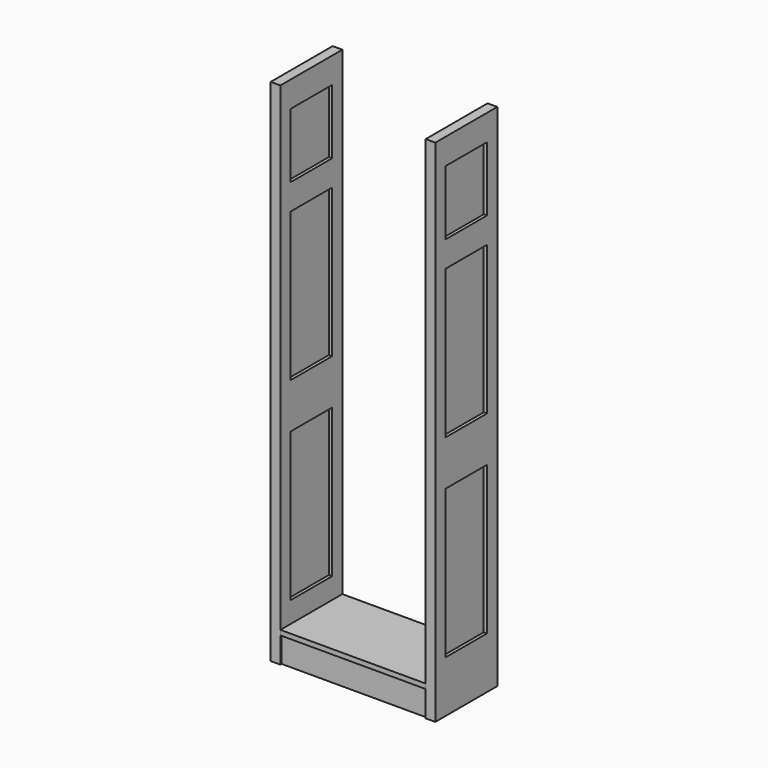
from build123d import *

# Parameters (mm, degrees)
F0_W     = 304.8
F0_H     = 2006.6
F0_W_2   = 203.2
F0_H_2   = 584.2
F0_H_3   = 254
F1_DEPTH = 19.05
F2_DEPTH = 6.35
F5_W     = 19.05
F5_H     = 101.6
F6_DEPTH = 571.5
F8_DEPTH = 571.5


with BuildPart() as f1:
    # F0 (on Right) → F1 (new body, symmetric)
    with BuildSketch(Plane.YZ):
        Rectangle(F0_W, F0_H)
        with Locations((0, -508)):
            Rectangle(F0_W_2, F0_H_2, mode=Mode.SUBTRACT)
        with Locations((0, 254)):
            Rectangle(F0_W_2, F0_H_2, mode=Mode.SUBTRACT)
        with Locations((0, 774.7)):
            Rectangle(F0_W_2, F0_H_3, mode=Mode.SUBTRACT)
    extrude(amount=F1_DEPTH, both=True)


with BuildPart() as f2:
    # F0 (on Right) → F2 (new body, symmetric)
    with BuildSketch(Plane.YZ):
        with Locations((0, 774.7)):
            Rectangle(F0_W_2, F0_H_3)
    extrude(amount=F2_DEPTH, both=True)


with BuildPart() as f2b:
    # F0 (on Right) → F2, piece 2 (new body, symmetric)
    with BuildSketch(Plane.YZ):
        with Locations((0, 254)):
            Rectangle(F0_W_2, F0_H_2)
    extrude(amount=F2_DEPTH, both=True)


with BuildPart() as f2c:
    # F0 (on Right) → F2, piece 3 (new body, symmetric)
    with BuildSketch(Plane.YZ):
        with Locations((0, -508)):
            Rectangle(F0_W_2, F0_H_2)
    extrude(amount=F2_DEPTH, both=True)


with BuildPart() as f4_1:
    # F4: instance of F1
    add(f1.part.mirror(Plane.YZ.offset(304.8)))


with BuildPart() as f4_2:
    # F4: instance of F2c
    add(f2c.part.mirror(Plane.YZ.offset(304.8)))


with BuildPart() as f4_3:
    # F4: instance of F2b
    add(f2b.part.mirror(Plane.YZ.offset(304.8)))


with BuildPart() as f4_4:
    # F4: instance of F2
    add(f2.part.mirror(Plane.YZ.offset(304.8)))


with BuildPart() as f6:
    # F5 (on face) → F6 (new body, through all)
    with BuildSketch(Plane.YZ.offset(19.05)):
        with Locations((-136.5250061512, -952.5)):
            Rectangle(F5_W, F5_H)
    extrude(amount=F6_DEPTH)


with BuildPart() as f8:
    # F7 (on face) → F8 (new body, through all)
    with BuildSketch(Plane.YZ.offset(19.05)):
        Polygon((-152.4, -901.7), (-146.0500061512, -901.7), (-127.0000061512, -901.7), (152.4, -901.7), (152.4, -882.65), (-152.4, -882.65), align=None)
    extrude(amount=F8_DEPTH)


solid = Compound([f1.part, f2.part, f2b.part, f2c.part, f4_1.part, f4_2.part, f4_3.part, f4_4.part, f6.part, f8.part])
